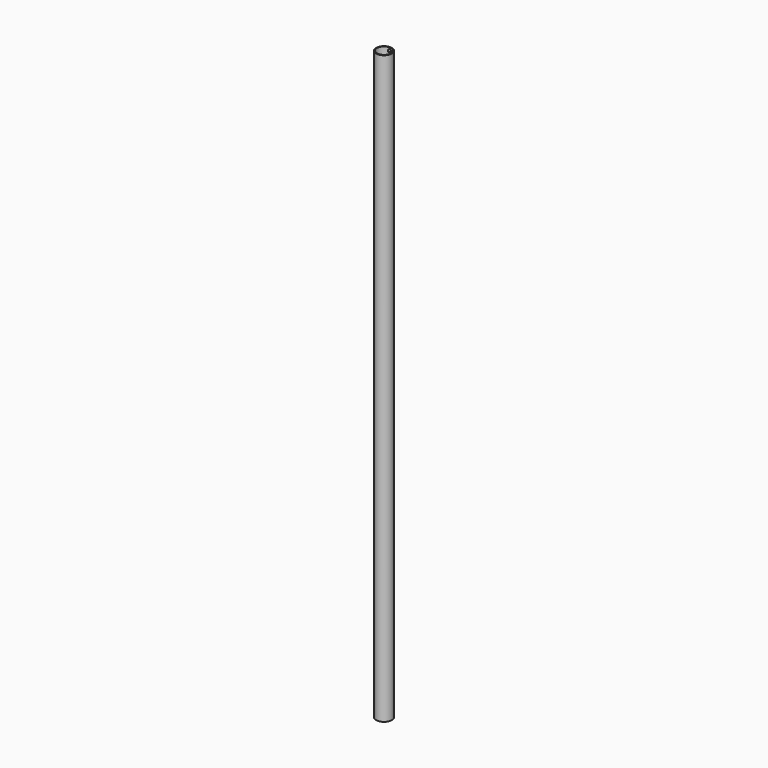
from build123d import *

# Parameters (mm, degrees)
F0_R     = 30
F0_R_2   = 27
F1_DEPTH = 2250
F2_R     = 6.5
F3_DEPTH = 60


with BuildPart() as f1:
    # F0 (on Top) → F1 (new body)
    with BuildSketch(Plane.XY):
        Circle(F0_R)
        Circle(F0_R_2, mode=Mode.SUBTRACT)
    extrude(amount=F1_DEPTH)

    # F2 (on Front) → F3 (cut)
    with BuildSketch(Plane.XZ):
        with Locations((0, 12)):
            Circle(F2_R)
        with Locations((0, 2238)):
            Circle(F2_R)
    extrude(amount=-F3_DEPTH, mode=Mode.SUBTRACT)


solid = f1.part
